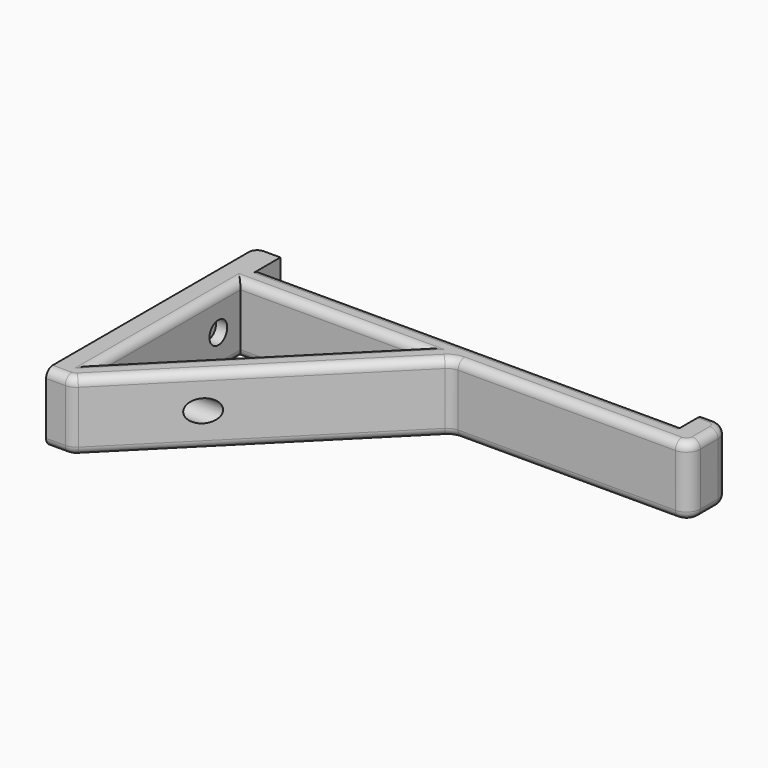
from build123d import *

# Parameters (mm, degrees)
F0_W     = 9
F0_H     = 9
F1_DEPTH = 25
F3_DEPTH = 9
F4_R     = 4
F4_R_2   = 2
F5_DEPTH = 4
F6_DEPTH = 162.001
F7_R     = 5
F8_R     = 5
F9_R     = 5
F10_R    = 5
F11_R    = 3
F12_R    = 3


with BuildPart() as f1:
    # F0 (on Top) → F1 (new body)
    with BuildSketch(Plane.XY):
        Polygon((-148.6704205513, 24.2638568878), (-148.6704205513, 15.2638568878), (-84.8983426127, 15.2638568878), (-72.1704205513, 15.2638568878), (4.3295794487, 15.2638568878), (4.3295794487, 24.2638568878), align=None)
        with Locations((-153.1704205513, 19.7638568878)):
            Rectangle(F0_W, F0_H)
        Polygon((-148.6704205513, -48.5082210508), (-148.6704205513, 15.2638568878), (-157.6704205513, 15.2638568878), (-157.6704205513, -61.2361431122), (-148.6704205513, -61.2361431122), align=None)
        Polygon((-72.1704205513, 15.2638568878), (-84.8983426127, 15.2638568878), (-116.784381582, -16.6221820815), (-110.4204205513, -22.9861431122), align=None)
        with Locations((-153.1704205513, 28.7638568878)):
            Rectangle(F0_W, F0_H)
        Polygon((-116.784381582, -16.6221820815), (-148.6704205513, -48.5082210508), (-148.6704205513, -61.2361431122), (-110.4204205513, -22.9861431122), align=None)
        Polygon((4.3295794487, 33.2638568878), (4.3295794487, 24.2638568878), (4.3295794487, 15.2638568878), (13.3295794487, 15.2638568878), (13.3295794487, 33.2638568878), align=None)
    extrude(amount=F1_DEPTH)

    # F2 (on face) → F3 (cut, through all)
    with BuildSketch(Plane(origin=(-157.6704205513, 0, 0), x_dir=(0, -1, 0), z_dir=(-1, 0, 0))):
        with BuildLine():
            ThreePointArc((-3.2638568878, 12.5), (-5.2638568878, 14.5), (-7.2638568878, 12.5))
            Line((-7.2638568878, 12.5), (-3.2638568878, 12.5))
        make_face()
        with BuildLine():
            Line((-3.2638568878, 12.5), (-7.2638568878, 12.5))
            ThreePointArc((-7.2638568878, 12.5), (-5.2638568878, 10.5), (-3.2638568878, 12.5))
        make_face()
        with BuildLine():
            ThreePointArc((32.7361431122, 12.5), (34.7361431122, 10.5), (36.7361431122, 12.5))
            Line((36.7361431122, 12.5), (32.7361431122, 12.5))
        make_face()
        with BuildLine():
            Line((32.7361431122, 12.5), (36.7361431122, 12.5))
            ThreePointArc((36.7361431122, 12.5), (34.7361431122, 14.5), (32.7361431122, 12.5))
        make_face()
    extrude(amount=-F3_DEPTH, mode=Mode.SUBTRACT)

    # F4 (on face) → F5 (cut)
    with BuildSketch(Plane.YZ.offset(-148.6704205513)):
        with Locations((5.2638568876, 12.5)):
            Circle(F4_R)
        with Locations((5.2638568878, 12.5)):
            Circle(F4_R_2, mode=Mode.SUBTRACT)
        with Locations((-34.7361431124, 12.5)):
            Circle(F4_R)
        with Locations((-34.7361431122, 12.5)):
            Circle(F4_R_2, mode=Mode.SUBTRACT)
        with Locations((-34.7361431124, 12.5)):
            Circle(F4_R)
        with Locations((-34.7361431122, 12.5)):
            Circle(F4_R_2, mode=Mode.SUBTRACT)
        with Locations((5.2638568876, 12.5)):
            Circle(F4_R)
        with Locations((5.2638568878, 12.5)):
            Circle(F4_R_2, mode=Mode.SUBTRACT)
    extrude(amount=-F5_DEPTH, mode=Mode.SUBTRACT)

    # F4 (on face) → F6 (cut, through all)
    with BuildSketch(Plane.YZ.offset(-148.6704205513)):
        with Locations((-34.7361431124, 12.5)):
            Circle(F4_R)
        with Locations((-34.7361431122, 12.5)):
            Circle(F4_R_2, mode=Mode.SUBTRACT)
        with Locations((-34.7361431122, 12.5)):
            Circle(F4_R_2)
    extrude(amount=F6_DEPTH, mode=Mode.SUBTRACT)

    # F7
    f7_edges = [f1.edges().sort_by_distance(p)[0] for p in [
        (-148.670421, -61.236143, 12.5),
    ]]
    fillet(f7_edges, radius=F7_R)

    # F8
    f8_edges = [f1.edges().sort_by_distance(p)[0] for p in [
        (-72.170421, 15.263857, 12.5),
    ]]
    fillet(f8_edges, radius=F8_R)

    # F9
    f9_edges = [f1.edges().sort_by_distance(p)[0] for p in [
        (13.329579, 15.263857, 12.5),
    ]]
    fillet(f9_edges, radius=F9_R)

    # F10
    f10_edges = [f1.edges().sort_by_distance(p)[0] for p in [
        (13.329579, 33.263857, 12.5),
    ]]
    fillet(f10_edges, radius=F10_R)

    # F11
    f11_edges = [f1.edges().sort_by_distance(p)[0] for p in [
        (-157.670421, 33.263857, 12.5),
        (-116.784382, 15.263857, 25),
        (-30.884887, 15.263857, 25),
        (-116.784382, -16.622182, 25),
        (-148.670421, -16.622182, 25),
        (-72.170421, 24.263857, 25),
    ]]
    fillet(f11_edges, radius=F11_R)

    # F12
    f12_edges = [f1.edges().sort_by_distance(p)[0] for p in [
        (-116.784382, 15.263857, 0),
        (-30.884887, 15.263857, 0),
        (-110.420421, -22.986143, 0),
        (-116.784382, -16.622182, 0),
        (-148.670421, -16.622182, 0),
        (-72.170421, 24.263857, 0),
    ]]
    fillet(f12_edges, radius=F12_R)


solid = f1.part
